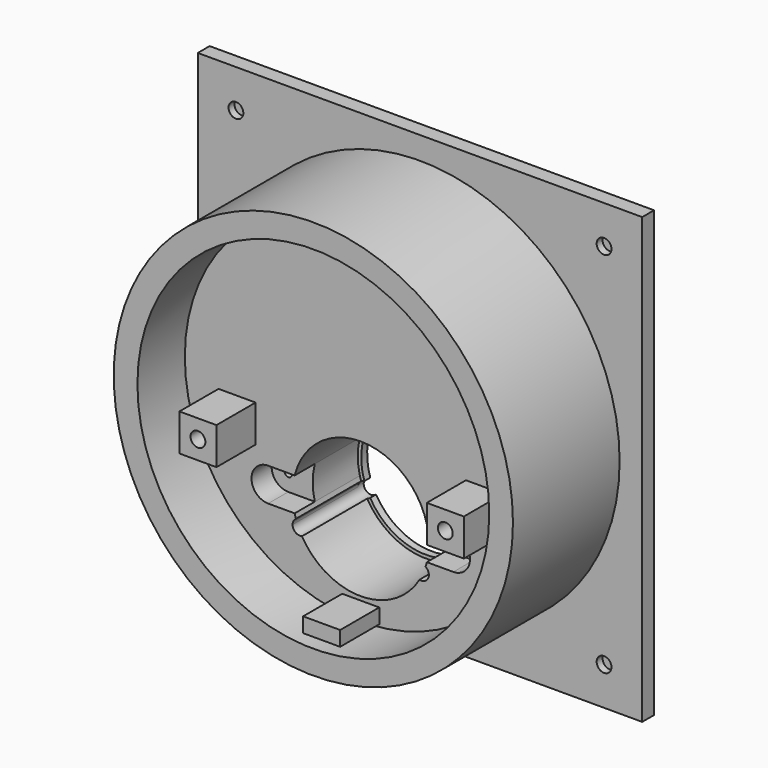
from build123d import *

# Parameters (mm, degrees)
F0_R      = 30.1625
F1_DEPTH  = 15.24
F2_D      = 2.54
F3_DEPTH  = 10.922
F4_D      = 1.27
F5_R      = 34.2265
F5_R_2    = 30.1625
F6_DEPTH  = 25.4
F8_W      = 6.35
F8_H      = 2.54
F8_H_2    = 6.35
F9_DEPTH  = 8.382
F10_D     = 2.54
F10_DEPTH = 10.161
F0_W      = 76.2
F0_H      = 76.2
F11_DEPTH = 2.54
F12_D     = 2.54
F13_W     = 76.2
F13_H     = 76.2
F13_R     = 11.0948644811
F14_DEPTH = 1.27
F15_D     = 2.54


with BuildPart() as f1:
    # F0 (on Front) → F1 (new body)
    with BuildSketch(Plane.XZ):
        Circle(F0_R)
        with BuildLine():
            ThreePointArc((-11.329190163, -11.811), (0, -2.9845), (11.329190163, -11.811))
            Line((11.329190163, -11.811), (15.875, -11.811))
            ThreePointArc((15.875, -11.811), (17.8955576272, -12.6479423728), (18.7325, -14.6685))
            ThreePointArc((18.7325, -14.6685), (17.8955576272, -16.6890576272), (15.875, -17.526))
            Line((15.875, -17.526), (11.329190163, -17.526))
            ThreePointArc((11.329190163, -17.526), (0, -26.3525), (-11.329190163, -17.526))
            Line((-11.329190163, -17.526), (-15.875, -17.526))
            ThreePointArc((-15.875, -17.526), (-18.7325, -14.6685), (-15.875, -11.811))
            Line((-15.875, -11.811), (-11.329190163, -11.811))
        make_face(mode=Mode.SUBTRACT)
    extrude(amount=F1_DEPTH)

    # F2 (through all)
    with Locations(Plane(origin=(0, 0, 0), x_dir=(1, 0, 0), z_dir=(0, 1, 0))):
        with Locations((-10.414, 19.3421), (10.414, 19.3421)):
            Hole(F2_D / 2)

    # F0 (on Front) → F3 (join)
    with BuildSketch(Plane.XZ):
        with BuildLine():
            ThreePointArc((-13.0175, -14.6685), (-13.8544423728, -12.6479423728), (-15.875, -11.811))
            Line((-15.875, -11.811), (-15.875, -17.526))
            ThreePointArc((-15.875, -17.526), (-13.8544423728, -16.6890576272), (-13.0175, -14.6685))
        make_face()
        with BuildLine():
            Line((-15.875, -17.526), (-15.875, -11.811))
            ThreePointArc((-15.875, -11.811), (-18.7325, -14.6685), (-15.875, -17.526))
        make_face()
        with BuildLine():
            Line((15.875, -17.526), (15.875, -11.811))
            ThreePointArc((15.875, -11.811), (13.0175, -14.6685), (15.875, -17.526))
        make_face()
        with BuildLine():
            ThreePointArc((18.7325, -14.6685), (17.8955576272, -12.6479423728), (15.875, -11.811))
            Line((15.875, -11.811), (15.875, -17.526))
            ThreePointArc((15.875, -17.526), (17.8955576272, -16.6890576272), (18.7325, -14.6685))
        make_face()
        with BuildLine():
            ThreePointArc((-11.329190163, -17.526), (-11.684, -14.6685), (-11.329190163, -11.811))
            Line((-11.329190163, -11.811), (-15.875, -11.811))
            ThreePointArc((-15.875, -11.811), (-13.8544423728, -12.6479423728), (-13.0175, -14.6685))
            ThreePointArc((-13.0175, -14.6685), (-13.8544423728, -16.6890576272), (-15.875, -17.526))
            Line((-15.875, -17.526), (-11.329190163, -17.526))
        make_face()
        with BuildLine():
            ThreePointArc((11.329190163, -11.811), (11.5949582549, -13.2287781284), (11.684, -14.6685))
            ThreePointArc((11.684, -14.6685), (11.5949582549, -16.1082218716), (11.329190163, -17.526))
            Line((11.329190163, -17.526), (15.875, -17.526))
            ThreePointArc((15.875, -17.526), (13.0175, -14.6685), (15.875, -11.811))
            Line((15.875, -11.811), (11.329190163, -11.811))
        make_face()
    extrude(amount=F3_DEPTH)

    # F4 (through all)
    with Locations(Plane(origin=(0, 0, 0), x_dir=(1, 0, 0), z_dir=(0, 1, 0))):
        with Locations((-15.875, 14.6685), (15.875, 14.6685)):
            Hole(F4_D / 2)

    # F5 (on Front) → F6 (join)
    with BuildSketch(Plane.XZ):
        Circle(F5_R)
        Circle(F5_R_2, mode=Mode.SUBTRACT)
    extrude(amount=F6_DEPTH)

    # F8 (on offset) → F9 (join)
    with BuildSketch(Plane.XZ.offset(15.24)):
        with Locations((0, -28.2834693789)):
            Rectangle(F8_W, F8_H)
        with Locations((-21.209, -6.1595)):
            Rectangle(F8_W, F8_H_2)
        with Locations((21.209, -6.1595)):
            Rectangle(F8_W, F8_H_2)
    extrude(amount=F9_DEPTH)

    # F10 (through all, one way)
    with BuildSketch(Plane(origin=(0, -15.24, 0), x_dir=(1, 0, 0), z_dir=(0, 1, 0))):
        with Locations((-21.209, 6.1595), (21.209, 6.1595)):
            Circle(F10_D / 2)
    extrude(amount=-F10_DEPTH, mode=Mode.SUBTRACT)

    # F0 (on Front) → F11 (join)
    with BuildSketch(Plane.XZ):
        Rectangle(F0_W, F0_H)
        Circle(F0_R, mode=Mode.SUBTRACT)
    extrude(amount=F11_DEPTH)

    # F12 (through all)
    with Locations(Plane(origin=(0, 0, 0), x_dir=(1, 0, 0), z_dir=(0, 1, 0))):
        with Locations((31.5595, 31.5595), (-31.5595, 31.5595), (-31.5595, -31.5595), (31.5595, -31.5595)):
            Hole(F12_D / 2)

    # F13 (on Front) → F14 (join)
    with BuildSketch(Plane.XZ):
        Rectangle(F13_W, F13_H)
        with Locations((0, -14.6812)):
            Circle(F13_R, mode=Mode.SUBTRACT)
    extrude(amount=F14_DEPTH)

    # F15 (through all)
    with Locations(Plane(origin=(0, 0, 0), x_dir=(1, 0, 0), z_dir=(0, 1, 0))):
        with Locations((10.414, 19.3548), (-10.414, 19.3548)):
            Hole(F15_D / 2)


solid = f1.part
